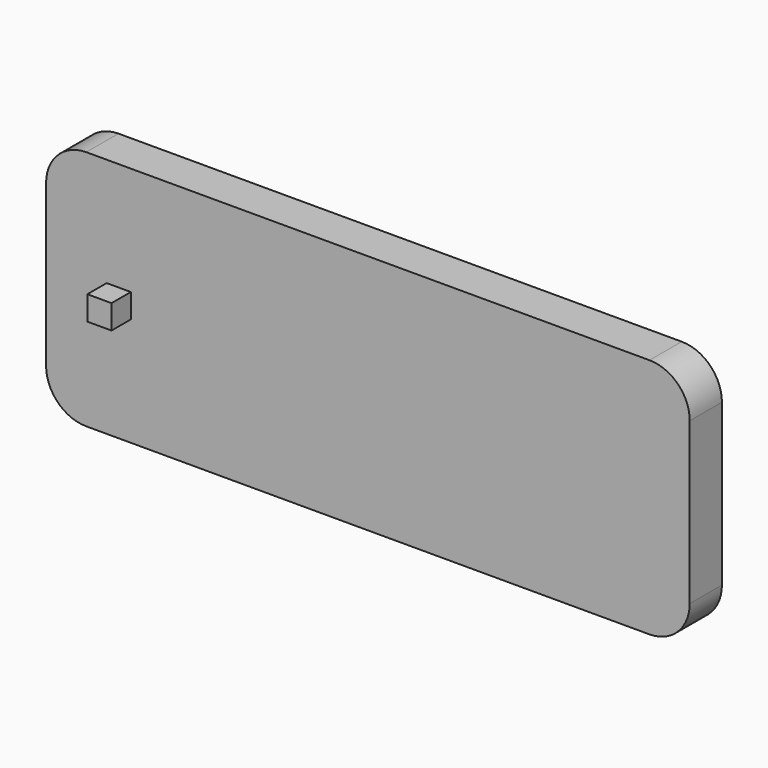
from build123d import *

# Parameters (mm, degrees)
F1_DEPTH = 6.35
F2_W     = 3.81
F2_H     = 3.81
F3_DEPTH = 3.81


with BuildPart() as f1:
    # F0 (on Front) → F1 (new body)
    with BuildSketch(Plane.XZ):
        with BuildLine():
            ThreePointArc((-50.8, -12.7), (-48.940128, -17.190128), (-44.45, -19.05))
            Line((-44.45, -19.05), (44.45, -19.05))
            ThreePointArc((44.45, -19.05), (48.940128, -17.190128), (50.8, -12.7))
            Line((50.8, -12.7), (50.8, 12.7))
            ThreePointArc((50.8, 12.7), (48.940128, 17.190128), (44.45, 19.05))
            Line((44.45, 19.05), (-44.45, 19.05))
            ThreePointArc((-44.45, 19.05), (-48.940128, 17.190128), (-50.8, 12.7))
            Line((-50.8, 12.7), (-50.8, -12.7))
        make_face()
    extrude(amount=F1_DEPTH)

    # F2 (on face) → F3 (join)
    with BuildSketch(Plane.XZ.offset(6.35)):
        with Locations((-39.331302, 0)):
            Rectangle(F2_W, F2_H)
    extrude(amount=F3_DEPTH)


solid = f1.part
